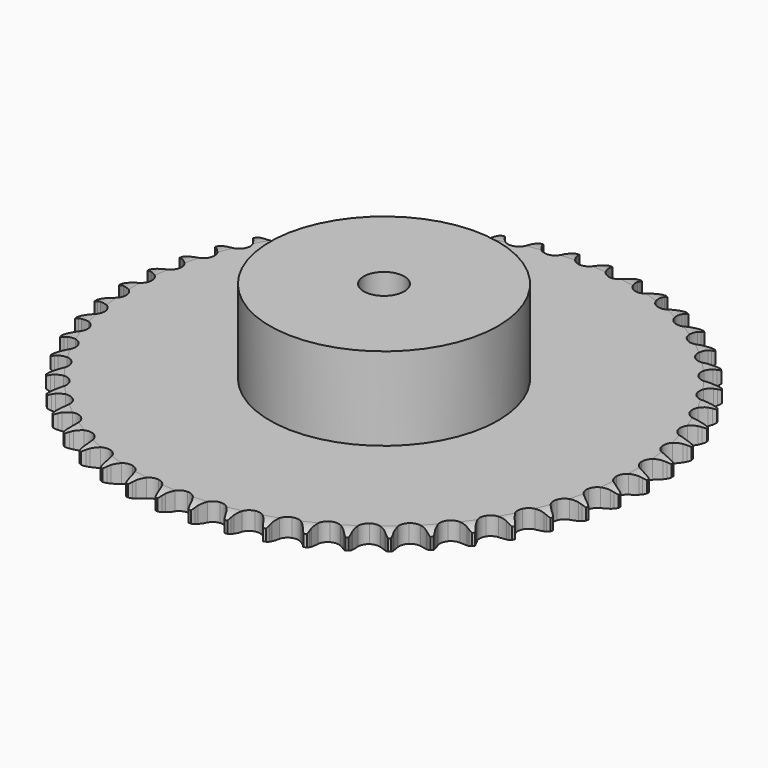
from build123d import *

# Parameters (mm, degrees)
PAD_DEPTH         = 7.2
SKETCH001_R       = 45
PAD001_DEPTH      = 40
SKETCH002_R       = 8
POCKET_DEPTH      = 0.001
POCKET_DEPTH_BACK = 40.001


with BuildPart() as part:
    # Sprocket → Pad (new body)
    with BuildSketch(Plane.XY):
        with BuildLine():
            ThreePointArc((-6.589501, 104.737116), (-5.911207, 103.745931), (-5.416161, 102.651646))
            Line((-5.416161, 102.651646), (-5.002238, 101.470991))
            ThreePointArc((-5.002238, 101.470991), (-4.348475, 99.970303), (-3.481529, 98.581822))
            ThreePointArc((-3.481529, 98.581822), (-1.951973, 97.282368), (0, 96.815542))
            ThreePointArc((0, 96.815542), (1.951973, 97.282368), (3.481529, 98.581822))
            ThreePointArc((3.481529, 98.581822), (4.348475, 99.970303), (5.002238, 101.470991))
            Line((5.002238, 101.470991), (5.416161, 102.651646))
            ThreePointArc((5.416161, 102.651646), (5.911207, 103.745931), (6.589501, 104.737116))
            ThreePointArc((6.589501, 104.737116), (7.138218, 103.668734), (7.49221, 102.521032))
            Line((7.49221, 102.521032), (7.754893, 101.297809))
            ThreePointArc((7.754893, 101.297809), (8.215416, 99.727015), (8.901502, 98.240826))
            ThreePointArc((8.901502, 98.240826), (10.256133, 96.759914), (12.134205, 96.052122))
            ThreePointArc((12.134205, 96.052122), (14.129295, 96.27062), (15.809655, 97.368124))
            Line((15.809655, 97.368124), (17.680482, 100.043915))
            ThreePointArc((17.680482, 100.043915), (17.944046, 100.61151), (18.239115, 101.163382))
            ThreePointArc((18.239115, 101.163382), (18.867408, 102.186993), (19.664582, 103.08535))
            ThreePointArc((19.664582, 103.08535), (20.075069, 101.956619), (20.282424, 100.7736))
            Line((20.282424, 100.7736), (20.389725, 99.527099))
            ThreePointArc((20.389725, 99.527099), (20.649744, 97.910974), (21.144151, 96.350514))
            ThreePointArc((21.144151, 96.350514), (22.302493, 94.711499), (24.077046, 93.773903))
            ThreePointArc((24.077046, 93.773903), (26.083789, 93.740627), (27.888453, 94.618872))
            Line((27.888453, 94.618872), (30.079893, 97.039087))
            ThreePointArc((30.079893, 97.039087), (30.412517, 97.569173), (30.774428, 98.079711))
            ThreePointArc((30.774428, 98.079711), (31.526059, 99.016505), (32.429541, 99.807865))
            ThreePointArc((32.429541, 99.807865), (32.695323, 98.636588), (32.752772, 97.436908))
            Line((32.752772, 97.436908), (32.702999, 96.186788))
            ThreePointArc((32.702999, 96.186788), (32.758414, 94.550817), (33.053345, 92.940697))
            ThreePointArc((33.053345, 92.940697), (33.997129, 91.169427), (35.640178, 90.016814))
            ThreePointArc((35.640178, 90.016814), (37.626927, 89.732289), (39.527433, 90.377424))
            Line((39.527433, 90.377424), (42.004927, 92.503895))
            ThreePointArc((42.004927, 92.503895), (42.401365, 92.988111), (42.82441, 93.449265))
            ThreePointArc((42.82441, 93.449265), (43.687526, 94.284467), (44.683067, 94.956351))
            ThreePointArc((44.683067, 94.956351), (44.799954, 93.760998), (44.70659, 92.563578))
            Line((44.70659, 92.563578), (44.500528, 91.329554))
            ThreePointArc((44.500528, 91.329554), (44.350463, 89.699538), (44.441268, 88.065149))
            ThreePointArc((44.441268, 88.065149), (45.155611, 86.189559), (46.641243, 84.840106))
            ThreePointArc((46.641243, 84.840106), (48.576665, 84.308818), (50.543043, 84.71067))
            Line((50.543043, 84.71067), (53.267518, 86.50986))
            ThreePointArc((53.267518, 86.50986), (53.721519, 86.940572), (54.199025, 87.345068))
            ThreePointArc((54.199025, 87.345068), (55.160013, 88.065507), (56.231914, 88.607319))
            ThreePointArc((56.231914, 88.607319), (56.198062, 87.406742), (55.955358, 86.230465))
            Line((55.955358, 86.230465), (55.596256, 85.031998))
            ThreePointArc((55.596256, 85.031998), (55.24308, 83.433643), (55.128325, 81.800761))
            ThreePointArc((55.128325, 81.800761), (55.601962, 79.85043), (56.906748, 78.325418))
            ThreePointArc((56.906748, 78.325418), (58.76032, 77.555748), (60.761558, 77.707978))
            Line((60.761558, 77.707978), (63.690048, 79.151514))
            ThreePointArc((63.690048, 79.151514), (64.194451, 79.521928), (64.71889, 79.863387))
            ThreePointArc((64.71889, 79.863387), (65.762595, 80.457701), (66.893951, 80.860896))
            ThreePointArc((66.893951, 80.860896), (66.709893, 79.674029), (66.321676, 78.537446))
            Line((66.321676, 78.537446), (65.815198, 77.393437))
            ThreePointArc((65.815198, 77.393437), (65.26448, 75.85195), (64.945975, 74.246327))
            ThreePointArc((64.945975, 74.246327), (65.171436, 72.252011), (66.274799, 70.575492))
            ThreePointArc((66.274799, 70.575492), (68.01729, 69.579577), (70.021827, 69.479785))
            Line((70.021827, 69.479785), (73.108148, 70.544901))
            ThreePointArc((73.108148, 70.544901), (73.654999, 70.849176), (74.218098, 71.122212))
            ThreePointArc((74.218098, 71.122212), (75.328061, 71.58103), (76.501029, 71.839248))
            ThreePointArc((76.501029, 71.839248), (76.169669, 70.684808), (75.642062, 69.605845))
            Line((75.642062, 69.605845), (74.996195, 68.534335))
            ThreePointArc((74.996195, 68.534335), (74.25662, 67.074026), (73.739389, 65.520983))
            ThreePointArc((73.739389, 65.520983), (73.713118, 63.514136), (74.597657, 61.712549))
            ThreePointArc((74.597657, 61.712549), (76.201587, 60.506094), (78.17781, 60.155854))
            Line((78.17781, 60.155854), (81.373289, 60.825753))
            ThreePointArc((81.373289, 60.825753), (81.953964, 61.05909), (82.546843, 61.259398))
            ThreePointArc((82.546843, 61.259398), (83.705559, 61.575482), (84.901641, 61.684653))
            ThreePointArc((84.901641, 61.684653), (84.428204, 60.580847), (83.769527, 59.576518))
            Line((83.769527, 59.576518), (82.994458, 58.594405))
            ThreePointArc((82.994458, 58.594405), (82.077689, 57.238305), (81.369889, 55.762334))
            ThreePointArc((81.369889, 55.762334), (81.0923, 53.774605), (81.744065, 51.876361))
            ThreePointArc((81.744065, 51.876361), (83.184139, 50.478394), (85.100882, 49.883229))
            Line((85.100882, 49.883229), (88.355125, 50.147346))
            ThreePointArc((88.355125, 50.147346), (88.960466, 50.306065), (89.573775, 50.430487))
            ThreePointArc((89.573775, 50.430487), (90.76297, 50.598853), (91.963303, 50.557254))
            ThreePointArc((91.963303, 50.557254), (91.355256, 49.521489), (90.575897, 48.607634))
            Line((90.575897, 48.607634), (89.683848, 47.730407))
            ThreePointArc((89.683848, 47.730407), (88.604344, 46.499902), (87.717137, 45.12428))
            ThreePointArc((87.717137, 45.12428), (87.192608, 43.187016), (87.601321, 41.222053))
            ThreePointArc((87.601321, 41.222053), (88.854828, 39.65462), (90.681863, 38.823916))
            Line((90.681863, 38.823916), (93.943547, 38.678086))
            ThreePointArc((93.943547, 38.678086), (94.564008, 38.759684), (95.188075, 38.806256))
            ThreePointArc((95.188075, 38.806256), (96.388995, 38.824249), (97.574649, 38.632537))
            ThreePointArc((97.574649, 38.632537), (96.841581, 37.681148), (95.953831, 36.872178))
            Line((95.953831, 36.872178), (94.95887, 36.113672))
            ThreePointArc((94.95887, 36.113672), (93.733655, 35.028168), (92.681033, 33.77459))
            ThreePointArc((92.681033, 33.77459), (91.917837, 31.918341), (92.077052, 29.917648))
            ThreePointArc((92.077052, 29.917648), (93.124222, 28.205468), (94.832736, 27.152327))
            Line((94.832736, 27.152327), (98.050424, 26.598849))
            ThreePointArc((98.050424, 26.598849), (98.676219, 26.602039), (99.301202, 26.570028))
            ThreePointArc((99.301202, 26.570028), (100.494907, 26.437364), (101.647185, 26.098561))
            ThreePointArc((101.647185, 26.098561), (100.800656, 25.246552), (99.818516, 24.555226))
            Line((99.818516, 24.555226), (98.736335, 23.927403))
            ThreePointArc((98.736335, 23.927403), (97.384731, 23.004018), (96.183294, 21.892253))
            ThreePointArc((96.183294, 21.892253), (95.193466, 20.146296), (95.100672, 18.141423))
            ThreePointArc((95.100672, 18.141423), (95.924993, 16.3115), (97.488041, 15.05253))
            Line((97.488041, 15.05253), (100.610987, 14.100133))
            ThreePointArc((100.610987, 14.100133), (101.232247, 14.024865), (101.84829, 13.914775))
            ThreePointArc((101.84829, 13.914775), (103.015955, 13.633546), (104.116684, 13.152996))
            ThreePointArc((104.116684, 13.152996), (103.170045, 12.413803), (102.109003, 11.851023))
            Line((102.109003, 11.851023), (100.956668, 11.363784))
            ThreePointArc((100.956668, 11.363784), (99.499991, 10.617081), (98.168686, 9.664663))
            ThreePointArc((98.168686, 9.664663), (96.967838, 8.056532), (96.624498, 6.079098))
            ThreePointArc((96.624498, 6.079098), (97.212968, 4.160289), (98.605901, 2.715344))
            Line((98.605901, 2.715344), (101.584854, 1.379049))
            ThreePointArc((101.584854, 1.379049), (102.191782, 1.22651), (102.78917, 1.040077))
            ThreePointArc((102.78917, 1.040077), (103.91238, 0.614719), (104.9442, 0))
            ThreePointArc((104.9442, 0), (103.91238, -0.614719), (102.78917, -1.040077))
            Line((102.78917, -1.040077), (101.584854, -1.379049))
            ThreePointArc((101.584854, -1.379049), (100.046077, -1.937293), (98.605901, -2.715344))
            ThreePointArc((98.605901, -2.715344), (97.212968, -4.160289), (96.624498, -6.079098))
            ThreePointArc((96.624498, -6.079098), (96.967838, -8.056532), (98.168686, -9.664663))
            Line((98.168686, -9.664663), (100.956668, -11.363784))
            ThreePointArc((100.956668, -11.363784), (101.539692, -11.591188), (102.109003, -11.851023))
            ThreePointArc((102.109003, -11.851023), (103.170045, -12.413803), (104.116684, -13.152996))
            ThreePointArc((104.116684, -13.152996), (103.015955, -13.633546), (101.84829, -13.914775))
            Line((101.84829, -13.914775), (100.610987, -14.100133))
            ThreePointArc((100.610987, -14.100133), (99.014377, -14.461116), (97.488041, -15.05253))
            ThreePointArc((97.488041, -15.05253), (95.924993, -16.3115), (95.100672, -18.141423))
            ThreePointArc((95.100672, -18.141423), (95.193466, -20.146296), (96.183294, -21.892253))
            Line((96.183294, -21.892253), (98.736335, -23.927403))
            ThreePointArc((98.736335, -23.927403), (99.28626, -24.226086), (99.818516, -24.555226))
            ThreePointArc((99.818516, -24.555226), (100.800656, -25.246552), (101.647185, -26.098561))
            ThreePointArc((101.647185, -26.098561), (100.494907, -26.437364), (99.301202, -26.570028))
            Line((99.301202, -26.570028), (98.050424, -26.598849))
            ThreePointArc((98.050424, -26.598849), (96.42116, -26.756877), (94.832736, -27.152327))
            ThreePointArc((94.832736, -27.152327), (93.124222, -28.205468), (92.077052, -29.917648))
            ThreePointArc((92.077052, -29.917648), (91.917837, -31.918341), (92.681033, -33.77459))
            Line((92.681033, -33.77459), (94.95887, -36.113672))
            ThreePointArc((94.95887, -36.113672), (95.467024, -36.478924), (95.953831, -36.872178))
            ThreePointArc((95.953831, -36.872178), (96.841581, -37.681148), (97.574649, -38.632537))
            ThreePointArc((97.574649, -38.632537), (96.388995, -38.824249), (95.188075, -38.806256))
            Line((95.188075, -38.806256), (93.943547, -38.678086))
            ThreePointArc((93.943547, -38.678086), (92.307325, -38.630667), (90.681863, -38.823916))
            ThreePointArc((90.681863, -38.823916), (88.854828, -39.65462), (87.601321, -41.222053))
            ThreePointArc((87.601321, -41.222053), (87.192608, -43.187016), (87.717137, -45.12428))
            Line((87.717137, -45.12428), (89.683848, -47.730407))
            ThreePointArc((89.683848, -47.730407), (90.142217, -48.156468), (90.575897, -48.607634))
            ThreePointArc((90.575897, -48.607634), (91.355256, -49.521489), (91.963303, -50.557254))
            ThreePointArc((91.963303, -50.557254), (90.76297, -50.598853), (89.573775, -50.430487))
            Line((89.573775, -50.430487), (88.355125, -50.147346))
            ThreePointArc((88.355125, -50.147346), (86.737748, -49.895228), (85.100882, -49.883229))
            ThreePointArc((85.100882, -49.883229), (83.184139, -50.478394), (81.744065, -51.876361))
            ThreePointArc((81.744065, -51.876361), (81.0923, -53.774605), (81.369889, -55.762334))
            Line((81.369889, -55.762334), (82.994458, -58.594405))
            ThreePointArc((82.994458, -58.594405), (83.395813, -59.074555), (83.769527, -59.576518))
            ThreePointArc((83.769527, -59.576518), (84.428204, -60.580847), (84.901641, -61.684653))
            ThreePointArc((84.901641, -61.684653), (83.705559, -61.575482), (82.546843, -61.259398))
            Line((82.546843, -61.259398), (81.373289, -60.825753))
            ThreePointArc((81.373289, -60.825753), (79.800264, -60.372912), (78.17781, -60.155854))
            ThreePointArc((78.17781, -60.155854), (76.201587, -60.506094), (74.597657, -61.712549))
            ThreePointArc((74.597657, -61.712549), (73.713118, -63.514136), (73.739389, -65.520983))
            Line((73.739389, -65.520983), (74.996195, -68.534335))
            ThreePointArc((74.996195, -68.534335), (75.334207, -69.061001), (75.642062, -69.605845))
            ThreePointArc((75.642062, -69.605845), (76.169669, -70.684808), (76.501029, -71.839248))
            ThreePointArc((76.501029, -71.839248), (75.328061, -71.58103), (74.218098, -71.122212))
            Line((74.218098, -71.122212), (73.108148, -70.544901))
            ThreePointArc((73.108148, -70.544901), (71.604283, -69.898479), (70.021827, -69.479785))
            ThreePointArc((70.021827, -69.479785), (68.01729, -69.579577), (66.274799, -70.575492))
            ThreePointArc((66.274799, -70.575492), (65.171436, -72.252011), (64.945975, -74.246327))
            Line((64.945975, -74.246327), (65.815198, -77.393437))
            ThreePointArc((65.815198, -77.393437), (66.084535, -77.958315), (66.321676, -78.537446))
            ThreePointArc((66.321676, -78.537446), (66.709893, -79.674029), (66.893951, -80.860896))
            ThreePointArc((66.893951, -80.860896), (65.762595, -80.457701), (64.71889, -79.863387))
            Line((64.71889, -79.863387), (63.690048, -79.151514))
            ThreePointArc((63.690048, -79.151514), (62.279059, -78.321705), (60.761558, -77.707978))
            ThreePointArc((60.761558, -77.707978), (58.76032, -77.555748), (56.906748, -78.325418))
            ThreePointArc((56.906748, -78.325418), (55.601962, -79.85043), (55.128325, -81.800761))
            Line((55.128325, -81.800761), (55.596256, -85.031998))
            ThreePointArc((55.596256, -85.031998), (55.792671, -85.626178), (55.955358, -86.230465))
            ThreePointArc((55.955358, -86.230465), (56.198062, -87.406742), (56.231914, -88.607319))
            ThreePointArc((56.231914, -88.607319), (55.160013, -88.065507), (54.199025, -87.345068))
            Line((54.199025, -87.345068), (53.267518, -86.50986))
            ThreePointArc((53.267518, -86.50986), (51.971658, -85.509751), (50.543043, -84.71067))
            ThreePointArc((50.543043, -84.71067), (48.576665, -84.308818), (46.641243, -84.840106))
            ThreePointArc((46.641243, -84.840106), (45.155611, -86.189559), (44.441268, -88.065149))
            Line((44.441268, -88.065149), (44.500528, -91.329554))
            ThreePointArc((44.500528, -91.329554), (44.620924, -91.943666), (44.70659, -92.563578))
            ThreePointArc((44.70659, -92.563578), (44.799954, -93.760998), (44.683067, -94.956351))
            ThreePointArc((44.683067, -94.956351), (43.687526, -94.284467), (42.82441, -93.449265))
            Line((42.82441, -93.449265), (42.004927, -92.503895))
            ThreePointArc((42.004927, -92.503895), (40.844632, -91.349257), (39.527433, -90.377424))
            ThreePointArc((39.527433, -90.377424), (37.626927, -89.732289), (35.640178, -90.016814))
            ThreePointArc((35.640178, -90.016814), (33.997129, -91.169427), (33.053345, -92.940697))
            Line((33.053345, -92.940697), (32.702999, -96.186788))
            ThreePointArc((32.702999, -96.186788), (32.745477, -96.811148), (32.752772, -97.436908))
            ThreePointArc((32.752772, -97.436908), (32.695323, -98.636588), (32.429541, -99.807865))
            ThreePointArc((32.429541, -99.807865), (31.526059, -99.016505), (30.774428, -98.079711))
            Line((30.774428, -98.079711), (30.079893, -97.039087))
            ThreePointArc((30.079893, -97.039087), (29.073463, -95.74813), (27.888453, -94.618872))
            ThreePointArc((27.888453, -94.618872), (26.083789, -93.740627), (24.077046, -93.773903))
            ThreePointArc((24.077046, -93.773903), (22.302493, -94.711499), (21.144151, -96.350514))
            Line((21.144151, -96.350514), (20.389725, -99.527099))
            ThreePointArc((20.389725, -99.527099), (20.353615, -100.15186), (20.282424, -100.7736))
            ThreePointArc((20.282424, -100.7736), (20.075069, -101.956619), (19.664582, -103.08535))
            ThreePointArc((19.664582, -103.08535), (18.867408, -102.186993), (18.239115, -101.163382))
            Line((18.239115, -101.163382), (17.680482, -100.043915))
            ThreePointArc((17.680482, -100.043915), (16.843787, -98.636999), (15.809655, -97.368124))
            ThreePointArc((15.809655, -97.368124), (14.129295, -96.27062), (12.134205, -96.052122))
            ThreePointArc((12.134205, -96.052122), (10.256133, -96.759914), (8.901502, -98.240826))
            Line((8.901502, -98.240826), (7.754893, -101.297809))
            ThreePointArc((7.754893, -101.297809), (7.640765, -101.913117), (7.49221, -102.521032))
            ThreePointArc((7.49221, -102.521032), (7.138218, -103.668734), (6.589501, -104.737116))
            ThreePointArc((6.589501, -104.737116), (5.911207, -103.745931), (5.416161, -102.651646))
            Line((5.416161, -102.651646), (5.002238, -101.470991))
            ThreePointArc((5.002238, -101.470991), (4.348475, -99.970303), (3.481529, -98.581822))
            ThreePointArc((3.481529, -98.581822), (1.951973, -97.282368), (0, -96.815542))
            ThreePointArc((0, -96.815542), (-1.951973, -97.282368), (-3.481529, -98.581822))
            Line((-3.481529, -98.581822), (-5.002238, -101.470991))
            ThreePointArc((-5.002238, -101.470991), (-5.192586, -102.067143), (-5.416161, -102.651646))
            ThreePointArc((-5.416161, -102.651646), (-5.911207, -103.745931), (-6.589501, -104.737116))
            ThreePointArc((-6.589501, -104.737116), (-7.138218, -103.668734), (-7.49221, -102.521032))
            Line((-7.49221, -102.521032), (-7.754893, -101.297809))
            ThreePointArc((-7.754893, -101.297809), (-8.215416, -99.727015), (-8.901502, -98.240826))
            ThreePointArc((-8.901502, -98.240826), (-10.256133, -96.759914), (-12.134205, -96.052122))
            ThreePointArc((-12.134205, -96.052122), (-14.129295, -96.27062), (-15.809655, -97.368124))
            Line((-15.809655, -97.368124), (-17.680482, -100.043915))
            ThreePointArc((-17.680482, -100.043915), (-17.944046, -100.61151), (-18.239115, -101.163382))
            ThreePointArc((-18.239115, -101.163382), (-18.867408, -102.186993), (-19.664582, -103.08535))
            ThreePointArc((-19.664582, -103.08535), (-20.075069, -101.956619), (-20.282424, -100.7736))
            Line((-20.282424, -100.7736), (-20.389725, -99.527099))
            ThreePointArc((-20.389725, -99.527099), (-20.649744, -97.910974), (-21.144151, -96.350514))
            ThreePointArc((-21.144151, -96.350514), (-22.302493, -94.711499), (-24.077046, -93.773903))
            ThreePointArc((-24.077046, -93.773903), (-26.083789, -93.740627), (-27.888453, -94.618872))
            Line((-27.888453, -94.618872), (-30.079893, -97.039087))
            ThreePointArc((-30.079893, -97.039087), (-30.412517, -97.569173), (-30.774428, -98.079711))
            ThreePointArc((-30.774428, -98.079711), (-31.526059, -99.016505), (-32.429541, -99.807865))
            ThreePointArc((-32.429541, -99.807865), (-32.695323, -98.636588), (-32.752772, -97.436908))
            Line((-32.752772, -97.436908), (-32.702999, -96.186788))
            ThreePointArc((-32.702999, -96.186788), (-32.758414, -94.550817), (-33.053345, -92.940697))
            ThreePointArc((-33.053345, -92.940697), (-33.997129, -91.169427), (-35.640178, -90.016814))
            ThreePointArc((-35.640178, -90.016814), (-37.626927, -89.732289), (-39.527433, -90.377424))
            Line((-39.527433, -90.377424), (-42.004927, -92.503895))
            ThreePointArc((-42.004927, -92.503895), (-42.401365, -92.988111), (-42.82441, -93.449265))
            ThreePointArc((-42.82441, -93.449265), (-43.687526, -94.284467), (-44.683067, -94.956351))
            ThreePointArc((-44.683067, -94.956351), (-44.799954, -93.760998), (-44.70659, -92.563578))
            Line((-44.70659, -92.563578), (-44.500528, -91.329554))
            ThreePointArc((-44.500528, -91.329554), (-44.350463, -89.699538), (-44.441268, -88.065149))
            ThreePointArc((-44.441268, -88.065149), (-45.155611, -86.189559), (-46.641243, -84.840106))
            ThreePointArc((-46.641243, -84.840106), (-48.576665, -84.308818), (-50.543043, -84.71067))
            Line((-50.543043, -84.71067), (-53.267518, -86.50986))
            ThreePointArc((-53.267518, -86.50986), (-53.721519, -86.940572), (-54.199025, -87.345068))
            ThreePointArc((-54.199025, -87.345068), (-55.160013, -88.065507), (-56.231914, -88.607319))
            ThreePointArc((-56.231914, -88.607319), (-56.198062, -87.406742), (-55.955358, -86.230465))
            Line((-55.955358, -86.230465), (-55.596256, -85.031998))
            ThreePointArc((-55.596256, -85.031998), (-55.24308, -83.433643), (-55.128325, -81.800761))
            ThreePointArc((-55.128325, -81.800761), (-55.601962, -79.85043), (-56.906748, -78.325418))
            ThreePointArc((-56.906748, -78.325418), (-58.76032, -77.555748), (-60.761558, -77.707978))
            Line((-60.761558, -77.707978), (-63.690048, -79.151514))
            ThreePointArc((-63.690048, -79.151514), (-64.194451, -79.521928), (-64.71889, -79.863387))
            ThreePointArc((-64.71889, -79.863387), (-65.762595, -80.457701), (-66.893951, -80.860896))
            ThreePointArc((-66.893951, -80.860896), (-66.709893, -79.674029), (-66.321676, -78.537446))
            Line((-66.321676, -78.537446), (-65.815198, -77.393437))
            ThreePointArc((-65.815198, -77.393437), (-65.26448, -75.85195), (-64.945975, -74.246327))
            ThreePointArc((-64.945975, -74.246327), (-65.171436, -72.252011), (-66.274799, -70.575492))
            ThreePointArc((-66.274799, -70.575492), (-68.01729, -69.579577), (-70.021827, -69.479785))
            Line((-70.021827, -69.479785), (-73.108148, -70.544901))
            ThreePointArc((-73.108148, -70.544901), (-73.654999, -70.849176), (-74.218098, -71.122212))
            ThreePointArc((-74.218098, -71.122212), (-75.328061, -71.58103), (-76.501029, -71.839248))
            ThreePointArc((-76.501029, -71.839248), (-76.169669, -70.684808), (-75.642062, -69.605845))
            Line((-75.642062, -69.605845), (-74.996195, -68.534335))
            ThreePointArc((-74.996195, -68.534335), (-74.25662, -67.074026), (-73.739389, -65.520983))
            ThreePointArc((-73.739389, -65.520983), (-73.713118, -63.514136), (-74.597657, -61.712549))
            ThreePointArc((-74.597657, -61.712549), (-76.201587, -60.506094), (-78.17781, -60.155854))
            Line((-78.17781, -60.155854), (-81.373289, -60.825753))
            ThreePointArc((-81.373289, -60.825753), (-81.953964, -61.05909), (-82.546843, -61.259398))
            ThreePointArc((-82.546843, -61.259398), (-83.705559, -61.575482), (-84.901641, -61.684653))
            ThreePointArc((-84.901641, -61.684653), (-84.428204, -60.580847), (-83.769527, -59.576518))
            Line((-83.769527, -59.576518), (-82.994458, -58.594405))
            ThreePointArc((-82.994458, -58.594405), (-82.077689, -57.238305), (-81.369889, -55.762334))
            ThreePointArc((-81.369889, -55.762334), (-81.0923, -53.774605), (-81.744065, -51.876361))
            ThreePointArc((-81.744065, -51.876361), (-83.184139, -50.478394), (-85.100882, -49.883229))
            Line((-85.100882, -49.883229), (-88.355125, -50.147346))
            ThreePointArc((-88.355125, -50.147346), (-88.960466, -50.306065), (-89.573775, -50.430487))
            ThreePointArc((-89.573775, -50.430487), (-90.76297, -50.598853), (-91.963303, -50.557254))
            ThreePointArc((-91.963303, -50.557254), (-91.355256, -49.521489), (-90.575897, -48.607634))
            Line((-90.575897, -48.607634), (-89.683848, -47.730407))
            ThreePointArc((-89.683848, -47.730407), (-88.604344, -46.499902), (-87.717137, -45.12428))
            ThreePointArc((-87.717137, -45.12428), (-87.192608, -43.187016), (-87.601321, -41.222053))
            ThreePointArc((-87.601321, -41.222053), (-88.854828, -39.65462), (-90.681863, -38.823916))
            Line((-90.681863, -38.823916), (-93.943547, -38.678086))
            ThreePointArc((-93.943547, -38.678086), (-94.564008, -38.759684), (-95.188075, -38.806256))
            ThreePointArc((-95.188075, -38.806256), (-96.388995, -38.824249), (-97.574649, -38.632537))
            ThreePointArc((-97.574649, -38.632537), (-96.841581, -37.681148), (-95.953831, -36.872178))
            Line((-95.953831, -36.872178), (-94.95887, -36.113672))
            ThreePointArc((-94.95887, -36.113672), (-93.733655, -35.028168), (-92.681033, -33.77459))
            ThreePointArc((-92.681033, -33.77459), (-91.917837, -31.918341), (-92.077052, -29.917648))
            ThreePointArc((-92.077052, -29.917648), (-93.124222, -28.205468), (-94.832736, -27.152327))
            Line((-94.832736, -27.152327), (-98.050424, -26.598849))
            ThreePointArc((-98.050424, -26.598849), (-98.676219, -26.602039), (-99.301202, -26.570028))
            ThreePointArc((-99.301202, -26.570028), (-100.494907, -26.437364), (-101.647185, -26.098561))
            ThreePointArc((-101.647185, -26.098561), (-100.800656, -25.246552), (-99.818516, -24.555226))
            Line((-99.818516, -24.555226), (-98.736335, -23.927403))
            ThreePointArc((-98.736335, -23.927403), (-97.384731, -23.004018), (-96.183294, -21.892253))
            ThreePointArc((-96.183294, -21.892253), (-95.193466, -20.146296), (-95.100672, -18.141423))
            ThreePointArc((-95.100672, -18.141423), (-95.924993, -16.3115), (-97.488041, -15.05253))
            Line((-97.488041, -15.05253), (-100.610987, -14.100133))
            ThreePointArc((-100.610987, -14.100133), (-101.232247, -14.024865), (-101.84829, -13.914775))
            ThreePointArc((-101.84829, -13.914775), (-103.015955, -13.633546), (-104.116684, -13.152996))
            ThreePointArc((-104.116684, -13.152996), (-103.170045, -12.413803), (-102.109003, -11.851023))
            Line((-102.109003, -11.851023), (-100.956668, -11.363784))
            ThreePointArc((-100.956668, -11.363784), (-99.499991, -10.617081), (-98.168686, -9.664663))
            ThreePointArc((-98.168686, -9.664663), (-96.967838, -8.056532), (-96.624498, -6.079098))
            ThreePointArc((-96.624498, -6.079098), (-97.212968, -4.160289), (-98.605901, -2.715344))
            Line((-98.605901, -2.715344), (-101.584854, -1.379049))
            ThreePointArc((-101.584854, -1.379049), (-102.191782, -1.22651), (-102.78917, -1.040077))
            ThreePointArc((-102.78917, -1.040077), (-103.91238, -0.614719), (-104.9442, 0))
            ThreePointArc((-104.9442, 0), (-103.91238, 0.614719), (-102.78917, 1.040077))
            Line((-102.78917, 1.040077), (-101.584854, 1.379049))
            ThreePointArc((-101.584854, 1.379049), (-100.046077, 1.937293), (-98.605901, 2.715344))
            ThreePointArc((-98.605901, 2.715344), (-97.212968, 4.160289), (-96.624498, 6.079098))
            ThreePointArc((-96.624498, 6.079098), (-96.967838, 8.056532), (-98.168686, 9.664663))
            Line((-98.168686, 9.664663), (-100.956668, 11.363784))
            ThreePointArc((-100.956668, 11.363784), (-101.539692, 11.591188), (-102.109003, 11.851023))
            ThreePointArc((-102.109003, 11.851023), (-103.170045, 12.413803), (-104.116684, 13.152996))
            ThreePointArc((-104.116684, 13.152996), (-103.015955, 13.633546), (-101.84829, 13.914775))
            Line((-101.84829, 13.914775), (-100.610987, 14.100133))
            ThreePointArc((-100.610987, 14.100133), (-99.014377, 14.461116), (-97.488041, 15.05253))
            ThreePointArc((-97.488041, 15.05253), (-95.924993, 16.3115), (-95.100672, 18.141423))
            ThreePointArc((-95.100672, 18.141423), (-95.193466, 20.146296), (-96.183294, 21.892253))
            Line((-96.183294, 21.892253), (-98.736335, 23.927403))
            ThreePointArc((-98.736335, 23.927403), (-99.28626, 24.226086), (-99.818516, 24.555226))
            ThreePointArc((-99.818516, 24.555226), (-100.800656, 25.246552), (-101.647185, 26.098561))
            ThreePointArc((-101.647185, 26.098561), (-100.494907, 26.437364), (-99.301202, 26.570028))
            Line((-99.301202, 26.570028), (-98.050424, 26.598849))
            ThreePointArc((-98.050424, 26.598849), (-96.42116, 26.756877), (-94.832736, 27.152327))
            ThreePointArc((-94.832736, 27.152327), (-93.124222, 28.205468), (-92.077052, 29.917648))
            ThreePointArc((-92.077052, 29.917648), (-91.917837, 31.918341), (-92.681033, 33.77459))
            Line((-92.681033, 33.77459), (-94.95887, 36.113672))
            ThreePointArc((-94.95887, 36.113672), (-95.467024, 36.478924), (-95.953831, 36.872178))
            ThreePointArc((-95.953831, 36.872178), (-96.841581, 37.681148), (-97.574649, 38.632537))
            ThreePointArc((-97.574649, 38.632537), (-96.388995, 38.824249), (-95.188075, 38.806256))
            Line((-95.188075, 38.806256), (-93.943547, 38.678086))
            ThreePointArc((-93.943547, 38.678086), (-92.307325, 38.630667), (-90.681863, 38.823916))
            ThreePointArc((-90.681863, 38.823916), (-88.854828, 39.65462), (-87.601321, 41.222053))
            ThreePointArc((-87.601321, 41.222053), (-87.192608, 43.187016), (-87.717137, 45.12428))
            Line((-87.717137, 45.12428), (-89.683848, 47.730407))
            ThreePointArc((-89.683848, 47.730407), (-90.142217, 48.156468), (-90.575897, 48.607634))
            ThreePointArc((-90.575897, 48.607634), (-91.355256, 49.521489), (-91.963303, 50.557254))
            ThreePointArc((-91.963303, 50.557254), (-90.76297, 50.598853), (-89.573775, 50.430487))
            Line((-89.573775, 50.430487), (-88.355125, 50.147346))
            ThreePointArc((-88.355125, 50.147346), (-86.737748, 49.895228), (-85.100882, 49.883229))
            ThreePointArc((-85.100882, 49.883229), (-83.184139, 50.478394), (-81.744065, 51.876361))
            ThreePointArc((-81.744065, 51.876361), (-81.0923, 53.774605), (-81.369889, 55.762334))
            Line((-81.369889, 55.762334), (-82.994458, 58.594405))
            ThreePointArc((-82.994458, 58.594405), (-83.395813, 59.074555), (-83.769527, 59.576518))
            ThreePointArc((-83.769527, 59.576518), (-84.428204, 60.580847), (-84.901641, 61.684653))
            ThreePointArc((-84.901641, 61.684653), (-83.705559, 61.575482), (-82.546843, 61.259398))
            Line((-82.546843, 61.259398), (-81.373289, 60.825753))
            ThreePointArc((-81.373289, 60.825753), (-79.800264, 60.372912), (-78.17781, 60.155854))
            ThreePointArc((-78.17781, 60.155854), (-76.201587, 60.506094), (-74.597657, 61.712549))
            ThreePointArc((-74.597657, 61.712549), (-73.713118, 63.514136), (-73.739389, 65.520983))
            Line((-73.739389, 65.520983), (-74.996195, 68.534335))
            ThreePointArc((-74.996195, 68.534335), (-75.334207, 69.061001), (-75.642062, 69.605845))
            ThreePointArc((-75.642062, 69.605845), (-76.169669, 70.684808), (-76.501029, 71.839248))
            ThreePointArc((-76.501029, 71.839248), (-75.328061, 71.58103), (-74.218098, 71.122212))
            Line((-74.218098, 71.122212), (-73.108148, 70.544901))
            ThreePointArc((-73.108148, 70.544901), (-71.604283, 69.898479), (-70.021827, 69.479785))
            ThreePointArc((-70.021827, 69.479785), (-68.01729, 69.579577), (-66.274799, 70.575492))
            ThreePointArc((-66.274799, 70.575492), (-65.171436, 72.252011), (-64.945975, 74.246327))
            Line((-64.945975, 74.246327), (-65.815198, 77.393437))
            ThreePointArc((-65.815198, 77.393437), (-66.084535, 77.958315), (-66.321676, 78.537446))
            ThreePointArc((-66.321676, 78.537446), (-66.709893, 79.674029), (-66.893951, 80.860896))
            ThreePointArc((-66.893951, 80.860896), (-65.762595, 80.457701), (-64.71889, 79.863387))
            Line((-64.71889, 79.863387), (-63.690048, 79.151514))
            ThreePointArc((-63.690048, 79.151514), (-62.279059, 78.321705), (-60.761558, 77.707978))
            ThreePointArc((-60.761558, 77.707978), (-58.76032, 77.555748), (-56.906748, 78.325418))
            ThreePointArc((-56.906748, 78.325418), (-55.601962, 79.85043), (-55.128325, 81.800761))
            Line((-55.128325, 81.800761), (-55.596256, 85.031998))
            ThreePointArc((-55.596256, 85.031998), (-55.792671, 85.626178), (-55.955358, 86.230465))
            ThreePointArc((-55.955358, 86.230465), (-56.198062, 87.406742), (-56.231914, 88.607319))
            ThreePointArc((-56.231914, 88.607319), (-55.160013, 88.065507), (-54.199025, 87.345068))
            Line((-54.199025, 87.345068), (-53.267518, 86.50986))
            ThreePointArc((-53.267518, 86.50986), (-51.971658, 85.509751), (-50.543043, 84.71067))
            ThreePointArc((-50.543043, 84.71067), (-48.576665, 84.308818), (-46.641243, 84.840106))
            ThreePointArc((-46.641243, 84.840106), (-45.155611, 86.189559), (-44.441268, 88.065149))
            Line((-44.441268, 88.065149), (-44.500528, 91.329554))
            ThreePointArc((-44.500528, 91.329554), (-44.620924, 91.943666), (-44.70659, 92.563578))
            ThreePointArc((-44.70659, 92.563578), (-44.799954, 93.760998), (-44.683067, 94.956351))
            ThreePointArc((-44.683067, 94.956351), (-43.687526, 94.284467), (-42.82441, 93.449265))
            Line((-42.82441, 93.449265), (-42.004927, 92.503895))
            ThreePointArc((-42.004927, 92.503895), (-40.844632, 91.349257), (-39.527433, 90.377424))
            ThreePointArc((-39.527433, 90.377424), (-37.626927, 89.732289), (-35.640178, 90.016814))
            ThreePointArc((-35.640178, 90.016814), (-33.997129, 91.169427), (-33.053345, 92.940697))
            Line((-33.053345, 92.940697), (-32.702999, 96.186788))
            ThreePointArc((-32.702999, 96.186788), (-32.745477, 96.811148), (-32.752772, 97.436908))
            ThreePointArc((-32.752772, 97.436908), (-32.695323, 98.636588), (-32.429541, 99.807865))
            ThreePointArc((-32.429541, 99.807865), (-31.526059, 99.016505), (-30.774428, 98.079711))
            Line((-30.774428, 98.079711), (-30.079893, 97.039087))
            ThreePointArc((-30.079893, 97.039087), (-29.073463, 95.74813), (-27.888453, 94.618872))
            ThreePointArc((-27.888453, 94.618872), (-26.083789, 93.740627), (-24.077046, 93.773903))
            ThreePointArc((-24.077046, 93.773903), (-22.302493, 94.711499), (-21.144151, 96.350514))
            Line((-21.144151, 96.350514), (-20.389725, 99.527099))
            ThreePointArc((-20.389725, 99.527099), (-20.353615, 100.15186), (-20.282424, 100.7736))
            ThreePointArc((-20.282424, 100.7736), (-20.075069, 101.956619), (-19.664582, 103.08535))
            ThreePointArc((-19.664582, 103.08535), (-18.867408, 102.186993), (-18.239115, 101.163382))
            Line((-18.239115, 101.163382), (-17.680482, 100.043915))
            ThreePointArc((-17.680482, 100.043915), (-16.843787, 98.636999), (-15.809655, 97.368124))
            ThreePointArc((-15.809655, 97.368124), (-14.129295, 96.27062), (-12.134205, 96.052122))
            ThreePointArc((-12.134205, 96.052122), (-10.256133, 96.759914), (-8.901502, 98.240826))
            Line((-8.901502, 98.240826), (-7.754893, 101.297809))
            ThreePointArc((-7.754893, 101.297809), (-7.640765, 101.913117), (-7.49221, 102.521032))
            ThreePointArc((-7.49221, 102.521032), (-7.138218, 103.668734), (-6.589501, 104.737116))
        make_face()
    extrude(amount=PAD_DEPTH)

    # Sketch → Groove (revolve, cut)
    with BuildSketch(Plane.XZ):
        with BuildLine():
            Line((98.483431, 0), (104.15, 0))
            Line((109.816569, 0), (104.15, 0))
            Line((109.816569, 7.2), (109.816569, 0))
            Line((104.15, 7.2), (109.816569, 7.2))
            Line((98.483431, 7.2), (104.15, 7.2))
            ThreePointArc((104.15, 5.9), (101.39032, 6.870833), (98.483431, 7.2))
            Line((104.15, 1.3), (104.15, 5.9))
            ThreePointArc((98.483431, 0), (101.39032, 0.329167), (104.15, 1.3))
        make_face()
    revolve(axis=Axis((0, 0, 0), (0, 0, 1)), mode=Mode.SUBTRACT)

    # Sketch001 → Pad001 (join)
    with BuildSketch(Plane.XY):
        Circle(SKETCH001_R)
    extrude(amount=PAD001_DEPTH)

    # Sketch002 → Pocket (cut, two sides)
    with BuildSketch(Plane.XY) as pocket_sk:
        Circle(SKETCH002_R)
    extrude(amount=-POCKET_DEPTH, mode=Mode.SUBTRACT)
    extrude(pocket_sk.sketch, amount=POCKET_DEPTH_BACK, mode=Mode.SUBTRACT)


solid = part.part
